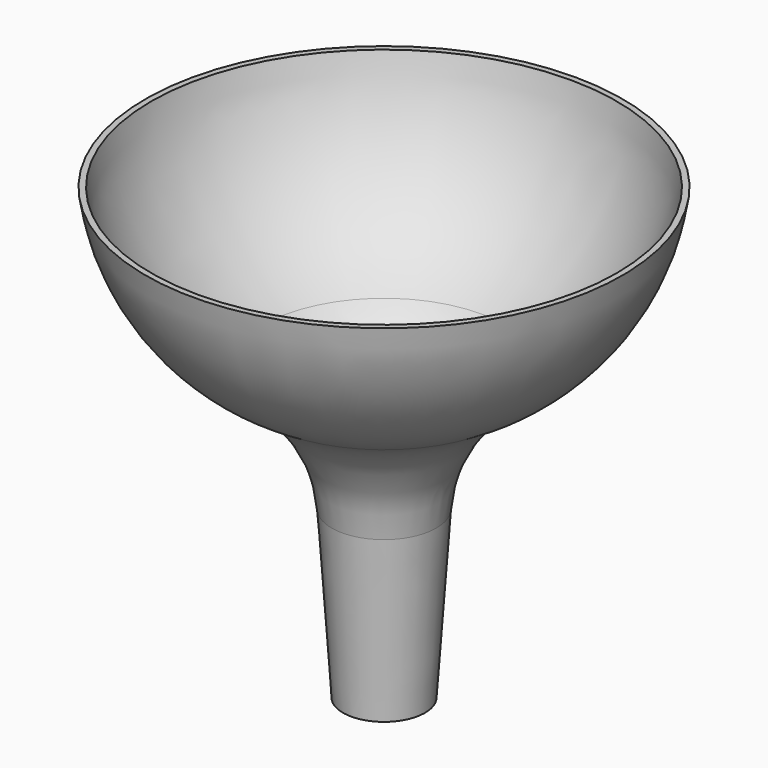
from build123d import *

# Parameters (mm, degrees)
F2_R = 25


with BuildPart() as f1:
    # F0 (on Right) → F1 (revolve)
    with BuildSketch(Plane.YZ):
        with BuildLine():
            Line((9.054969, 45), (5.997695, 0))
            Line((5.997695, 0), (7, 0))
            Line((7, 0), (10, 44.156982))
            ThreePointArc((10, 44.156982), (30.559322, 55.462497), (40.691342, 76.624788))
            Line((40.691342, 76.624788), (39.681802, 76.624788))
            ThreePointArc((39.681802, 76.624788), (29.520313, 55.823041), (9.054969, 45))
        make_face()
    revolve(axis=Axis((0, 0, 37.277609), (0, 0, 1)))

    # F2
    f2_edges = [f1.edges().sort_by_distance(p)[0] for p in [
        (0, -10, 44.156982),
        (0, -9.054969, 45),
    ]]
    fillet(f2_edges, radius=F2_R)


solid = f1.part
